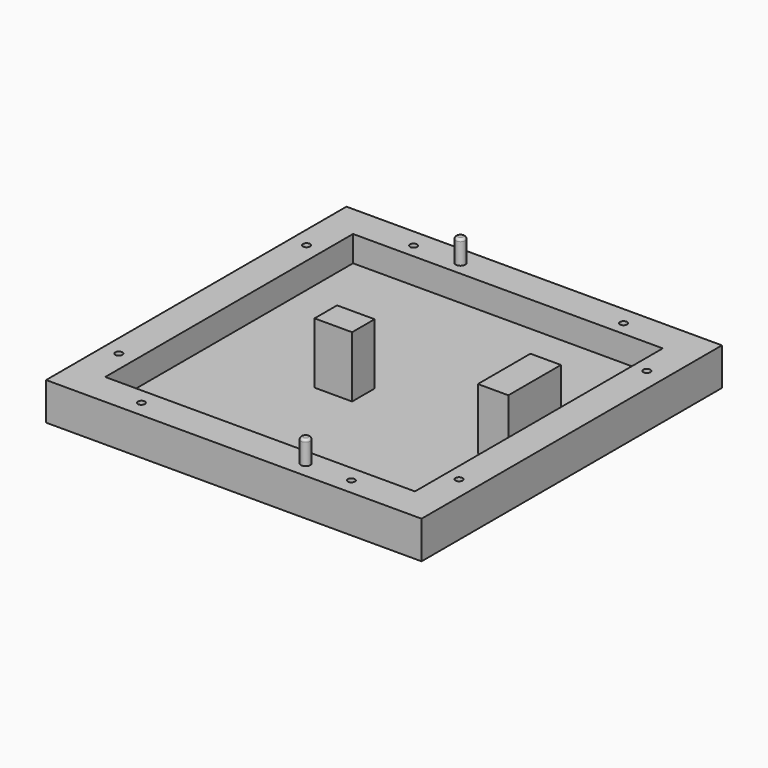
from build123d import *

# Parameters (mm, degrees)
CYLINDER009_R     = 2
CYLINDER009_DEPTH = 10
FILLET_R          = 1
CYLINDER008_R     = 2
CYLINDER008_DEPTH = 10
FILLET001_R       = 1
BOX002_W          = 16
BOX002_H          = 12
BOX002_DEPTH      = 26
BOX003_W          = 13
BOX003_H          = 28
BOX003_DEPTH      = 26
CYLINDER_R        = 1.5
CYLINDER_DEPTH    = 16
CYLINDER001_R     = 1.5
CYLINDER001_DEPTH = 16
CYLINDER002_R     = 1.5
CYLINDER002_DEPTH = 16
CYLINDER003_R     = 1.5
CYLINDER003_DEPTH = 16
CYLINDER004_R     = 1.5
CYLINDER004_DEPTH = 16
CYLINDER005_R     = 1.5
CYLINDER005_DEPTH = 16
CYLINDER006_R     = 1.5
CYLINDER006_DEPTH = 16
CYLINDER007_R     = 1.5
CYLINDER007_DEPTH = 16
BOX001_W          = 132
BOX001_H          = 132
BOX001_DEPTH      = 11
BOX_W             = 160
BOX_H             = 160
BOX_DEPTH         = 16


with BuildPart() as fillet_body:
    # Cylinder009 → Cylinder009 (new body)
    with BuildSketch(Plane(origin=(55, 152, 16), x_dir=(1, 0, 0), z_dir=(0, 0, 1))):
        Circle(CYLINDER009_R)
    extrude(amount=CYLINDER009_DEPTH)

    # Fillet
    fillet_edges = [fillet_body.edges().sort_by_distance(p)[0] for p in [
        (53, 152, 26),
    ]]
    fillet(fillet_edges, radius=FILLET_R)


with BuildPart() as fillet001:
    # Cylinder008 → Cylinder008 (new body)
    with BuildSketch(Plane(origin=(105, 7, 16), x_dir=(1, 0, 0), z_dir=(0, 0, 1))):
        Circle(CYLINDER008_R)
    extrude(amount=CYLINDER008_DEPTH)

    # Fillet001
    fillet001_edges = [fillet001.edges().sort_by_distance(p)[0] for p in [
        (103, 7, 26),
    ]]
    fillet(fillet001_edges, radius=FILLET001_R)


with BuildPart() as cube002:
    # Box002 → Box002 (new body)
    with BuildSketch(Plane(origin=(60, 68, 5), x_dir=(1, 0, 0), z_dir=(0, 0, 1))):
        with Locations((8, 6)):
            Rectangle(BOX002_W, BOX002_H)
    extrude(amount=BOX002_DEPTH)


with BuildPart() as cube003:
    # Box003 → Box003 (new body)
    with BuildSketch(Plane(origin=(132, 65, 5), x_dir=(1, 0, 0), z_dir=(0, 0, 1))):
        with Locations((6.5, 14)):
            Rectangle(BOX003_W, BOX003_H)
    extrude(amount=BOX003_DEPTH)


with BuildPart() as cylinder:
    # Cylinder → Cylinder (new body)
    with BuildSketch(Plane(origin=(35, 7, 0), x_dir=(1, 0, 0), z_dir=(0, 0, 1))):
        Circle(CYLINDER_R)
    extrude(amount=CYLINDER_DEPTH)


with BuildPart() as cylinder001:
    # Cylinder001 → Cylinder001 (new body)
    with BuildSketch(Plane(origin=(124.5, 7, 0), x_dir=(1, 0, 0), z_dir=(0, 0, 1))):
        Circle(CYLINDER001_R)
    extrude(amount=CYLINDER001_DEPTH)


with BuildPart() as cylinder002:
    # Cylinder002 → Cylinder002 (new body)
    with BuildSketch(Plane(origin=(35, 152, 0), x_dir=(1, 0, 0), z_dir=(0, 0, 1))):
        Circle(CYLINDER002_R)
    extrude(amount=CYLINDER002_DEPTH)


with BuildPart() as cylinder003:
    # Cylinder003 → Cylinder003 (new body)
    with BuildSketch(Plane(origin=(124.5, 152, 0), x_dir=(1, 0, 0), z_dir=(0, 0, 1))):
        Circle(CYLINDER003_R)
    extrude(amount=CYLINDER003_DEPTH)


with BuildPart() as cylinder004:
    # Cylinder004 → Cylinder004 (new body)
    with BuildSketch(Plane(origin=(7, 30, 0), x_dir=(1, 0, 0), z_dir=(0, 0, 1))):
        Circle(CYLINDER004_R)
    extrude(amount=CYLINDER004_DEPTH)


with BuildPart() as cylinder005:
    # Cylinder005 → Cylinder005 (new body)
    with BuildSketch(Plane(origin=(7, 130, 0), x_dir=(1, 0, 0), z_dir=(0, 0, 1))):
        Circle(CYLINDER005_R)
    extrude(amount=CYLINDER005_DEPTH)


with BuildPart() as cylinder006:
    # Cylinder006 → Cylinder006 (new body)
    with BuildSketch(Plane(origin=(152, 30, 0), x_dir=(1, 0, 0), z_dir=(0, 0, 1))):
        Circle(CYLINDER006_R)
    extrude(amount=CYLINDER006_DEPTH)


with BuildPart() as anchor_holes:
    # Cylinder007 → Cylinder007 (new body)
    with BuildSketch(Plane(origin=(152, 130, 0), x_dir=(1, 0, 0), z_dir=(0, 0, 1))):
        Circle(CYLINDER007_R)
    extrude(amount=CYLINDER007_DEPTH)

    # Fusion: union Cylinder, Cylinder001, Cylinder002, Cylinder003, Cylinder004, Cylinder005, Cylinder006
    add(cylinder.part)
    add(cylinder001.part)
    add(cylinder002.part)
    add(cylinder003.part)
    add(cylinder004.part)
    add(cylinder005.part)
    add(cylinder006.part)


with BuildPart() as cube001:
    # Box001 → Box001 (new body)
    with BuildSketch(Plane(origin=(14, 14, 5), x_dir=(1, 0, 0), z_dir=(0, 0, 1))):
        with Locations((66, 66)):
            Rectangle(BOX001_W, BOX001_H)
    extrude(amount=BOX001_DEPTH)


with BuildPart() as led_array:
    # Box → Box (new body)
    with BuildSketch(Plane.XY):
        with Locations((80, 80)):
            Rectangle(BOX_W, BOX_H)
    extrude(amount=BOX_DEPTH)

    # Cut: cut Cube001
    add(cube001.part, mode=Mode.SUBTRACT)

    # Cut001: cut Anchor Holes
    add(anchor_holes.part, mode=Mode.SUBTRACT)

    # Fusion001: union Cube002, Cube003
    add(cube002.part)
    add(cube003.part)

    # Fusion002: union Fillet body, Fillet001
    add(fillet_body.part)
    add(fillet001.part)


with BuildPart() as led_array_1:
    # Fusion002 placement: moved
    add(led_array.part.moved(Location((224.8, 0, -16))))


solid = led_array_1.part
